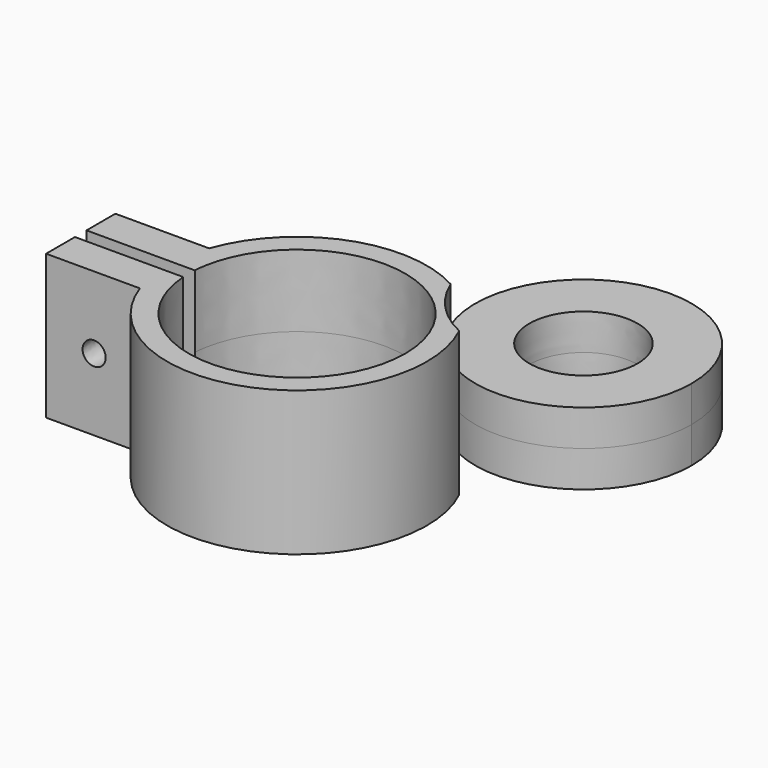
from build123d import *

# Parameters (mm, degrees)
F1_DEPTH      = 10
F1_DEPTH_BACK = 10
F2_DEPTH      = 5
F2_DEPTH_BACK = 5
F0_R          = 10
F3_DEPTH      = 5
F3_DEPTH_BACK = 5
F5_DEPTH      = 25


with BuildPart() as f1:
    # F0 (on Top) → F1 (new body, two sides)
    with BuildSketch(Plane.XY) as f1_sk:
        with BuildLine():
            add(Edge.make_bspline(
                [(-14.9666295471, -1), (-13.3202478735, -25.6407846023), (7.7870110598, -12.8203923011), (28.894269993, 0), (7.7870110598, 12.8203923011), (-13.3202478735, 25.6407846023), (-14.9666295471, 1)],
                knots=[5.3604852952, 5.3604852952, 5.3604852952, 7.4104029654, 7.4104029654, 9.4603206355, 9.4603206355, 11.5102383056, 11.5102383056, 11.5102383056], degree=2, weights=[1, 0.5191340707, 1, 0.5191340707, 1, 0.5191340707, 1]))
            Line((-14.9666295471, -1), (-29.9666295471, -1))
            Line((-29.9666295471, -1), (-29.9666295471, -6))
            Line((-29.9666295471, -6), (-16.9705627485, -6))
            ThreePointArc((-16.9705627485, -6), (6.9116878404, -16.6201254868), (16.220752164, 7.8030250054))
            ThreePointArc((16.220752164, 7.8030250054), (11.6886218218, 11.0731847483), (8.6681417363, 15.7754023353))
            ThreePointArc((8.6681417363, 15.7754023353), (-6.4126571224, 16.8189722822), (-16.9705627485, 6))
            Line((-16.9705627485, 6), (-29.9666295471, 6))
            Line((-29.9666295471, 6), (-29.9666295471, 1))
            Line((-29.9666295471, 1), (-14.9666295471, 1))
        make_face()
    extrude(amount=F1_DEPTH)
    extrude(f1_sk.sketch, amount=-F1_DEPTH_BACK)

    # F0 (on Top) → F2 (join, two sides)
    with BuildSketch(Plane.XY) as f2_sk:
        with BuildLine():
            ThreePointArc((8.6681417363, 15.7754023353), (11.6886218218, 11.0731847483), (16.220752164, 7.8030250054))
            ThreePointArc((16.220752164, 7.8030250054), (13.0672858684, 12.3792584605), (8.6681417363, 15.7754023353))
        make_face()
    extrude(amount=F2_DEPTH)
    extrude(f2_sk.sketch, amount=-F2_DEPTH_BACK)

    # F0 (on Top) → F3 (join, two sides)
    with BuildSketch(Plane.XY) as f3_sk:
        with BuildLine():
            ThreePointArc((8.6681417363, 15.7754023353), (13.0672858684, 12.3792584605), (16.220752164, 7.8030250054))
            ThreePointArc((16.220752164, 7.8030250054), (30.629140976, 8.7330271179), (37.5780267122, 21.3892334654))
            ThreePointArc((37.5780267122, 21.3892334654), (19.7186801643, 36.1141829499), (8.6681417363, 15.7754023353))
        make_face()
        with Locations((22.5780267122, 21.3892334654)):
            Circle(F0_R, mode=Mode.SUBTRACT)
        with Locations((22.5780267122, 21.3892334654)):
            Circle(F0_R)
        with BuildLine():
            add(Edge.make_bspline(
                [(16.7046953528, 16.7251173924), (24.7831813636, 6.5522090682), (29.5539353973, 18.6348373398), (34.324689431, 30.7174656114), (21.4754493865, 28.807745664), (8.6262093419, 26.8980257167), (16.7046953528, 16.7251173924)],
                knots=[0, 0, 0, 2.0943951024, 2.0943951024, 4.1887902048, 4.1887902048, 6.2831853072, 6.2831853072, 6.2831853072], degree=2, weights=[1, 0.5, 1, 0.5, 1, 0.5, 1]))
        make_face(mode=Mode.SUBTRACT)
    extrude(amount=F3_DEPTH)
    extrude(f3_sk.sketch, amount=-F3_DEPTH_BACK)

    # F4 (on face) → F5 (cut)
    with BuildSketch(Plane(origin=(0, 6, 0), x_dir=(-1, 0, 0), z_dir=(0, 1, 0))):
        with BuildLine():
            add(Edge.make_bspline(
                [(23.311086945, -1.6), (26.0823682371, -1.6), (24.6967275911, 0.8), (23.311086945, 3.2), (21.9254462989, 0.8), (20.5398056529, -1.6), (23.311086945, -1.6)],
                knots=[0, 0, 0, 2.0943951024, 2.0943951024, 4.1887902048, 4.1887902048, 6.2831853072, 6.2831853072, 6.2831853072], degree=2, weights=[1, 0.5, 1, 0.5, 1, 0.5, 1]))
        make_face()
    extrude(amount=-F5_DEPTH, mode=Mode.SUBTRACT)


solid = f1.part
